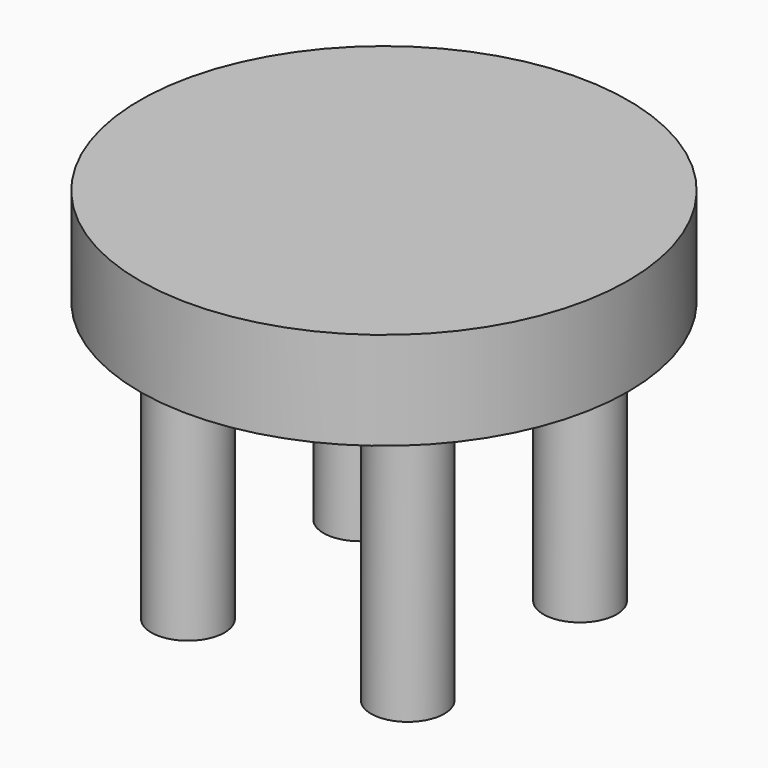
from build123d import *

# Parameters (mm, degrees)
F0_R     = 50
F0_R_2   = 7.5
F1_DEPTH = 20
F2_DEPTH = 55.6


with BuildPart() as f1:
    # F0 (on Top) → F1 (new body)
    with BuildSketch(Plane.XY):
        Circle(F0_R)
        with Locations((-22.5, -22.045407685)):
            Circle(F0_R_2, mode=Mode.SUBTRACT)
        with Locations((22.5, -22.045407685)):
            Circle(F0_R_2, mode=Mode.SUBTRACT)
        with Locations((-22.5, 22.045407685)):
            Circle(F0_R_2, mode=Mode.SUBTRACT)
        with Locations((22.5, 22.045407685)):
            Circle(F0_R_2, mode=Mode.SUBTRACT)
        with Locations((22.5, -22.045407685)):
            Circle(F0_R_2)
        with Locations((-22.5, -22.045407685)):
            Circle(F0_R_2)
        with Locations((22.5, 22.045407685)):
            Circle(F0_R_2)
        with Locations((-22.5, 22.045407685)):
            Circle(F0_R_2)
    extrude(amount=F1_DEPTH)

    # F0 (on Top) → F2 (join)
    with BuildSketch(Plane.XY):
        with Locations((22.5, 22.045407685)):
            Circle(F0_R_2)
        with Locations((-22.5, 22.045407685)):
            Circle(F0_R_2)
        with Locations((-22.5, -22.045407685)):
            Circle(F0_R_2)
        with Locations((22.5, -22.045407685)):
            Circle(F0_R_2)
    extrude(amount=-F2_DEPTH)


solid = f1.part
